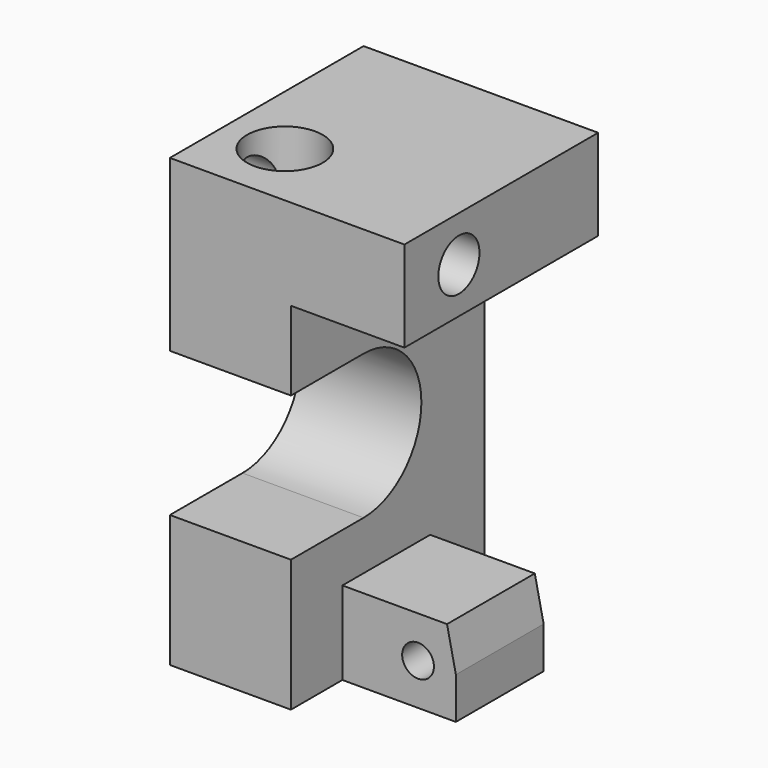
from build123d import *

# Parameters (mm, degrees)
F1_DEPTH  = 16
F2_W      = 14.5
F2_H      = 11
F3_DEPTH  = 15
F5_DEPTH  = 23.501
F7_D      = 4.2
F8_W      = 32
F8_H      = 12
F9_DEPTH  = 15
F10_R     = 5
F11_DEPTH = 25
F13_D     = 6.8


with BuildPart() as f1:
    # F0 (on Right) → F1 (new body)
    with BuildSketch(Plane.YZ):
        with BuildLine():
            ThreePointArc((0, 9.55), (9.55, 0), (0, -9.55))
            Line((0, -9.55), (-12, -9.55))
            Line((-12, -9.55), (-12, -27))
            Line((-12, -27), (20, -27))
            Line((20, -27), (20, 32))
            Line((20, 32), (-12, 32))
            Line((-12, 32), (-12, 9.55))
            Line((-12, 9.55), (0, 9.55))
        make_face()
    extrude(amount=F1_DEPTH)

    # F2 (on face) → F3 (join)
    with BuildSketch(Plane.YZ.offset(16)):
        with Locations((3.75, -21.5)):
            Rectangle(F2_W, F2_H)
    extrude(amount=F3_DEPTH)

    # F4 (on face) → F5 (cut, through all)
    with BuildSketch(Plane.XZ.offset(3.5)):
        Polygon((29.8309389108, -16), (31, -21.5), (31, -16), align=None)
    extrude(amount=-F5_DEPTH, mode=Mode.SUBTRACT)

    # F7 (through all)
    with Locations(Plane(origin=(0, 11, 0), x_dir=(-1, 0, 0), z_dir=(0, 1, 0))):
        with Locations((-26, -21.5)):
            Hole(F7_D / 2)

    # F8 (on face) → F9 (join)
    with BuildSketch(Plane.YZ.offset(16)):
        with Locations((4, 26)):
            Rectangle(F8_W, F8_H)
    extrude(amount=F9_DEPTH)

    # F10 (on face) → F11 (cut)
    with BuildSketch(Plane.XY.offset(32)):
        with Locations((8, -3)):
            Circle(F10_R)
    extrude(amount=-F11_DEPTH, mode=Mode.SUBTRACT)

    # F13 (through all)
    with Locations(Plane.YZ.offset(31)):
        with Locations((-3, 26)):
            Hole(F13_D / 2)


solid = f1.part
